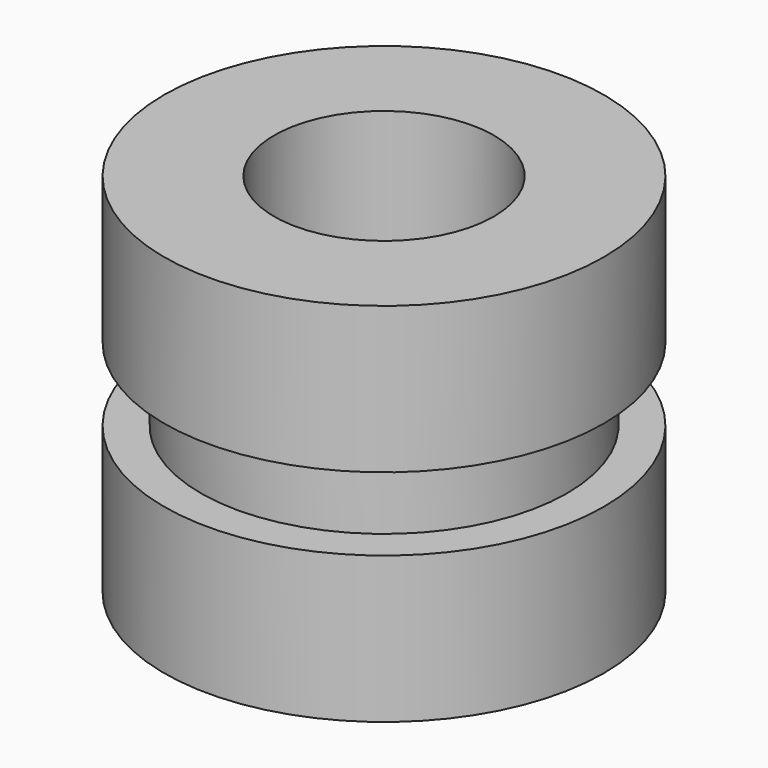
from build123d import *

# Parameters (mm, degrees)
F0_R     = 2.5
F0_R_2   = 1.5
F1_DEPTH = 5
F0_R_3   = 3
F2_DEPTH = 2
F3_R     = 3
F3_R_2   = 2.5
F4_DEPTH = 2


with BuildPart() as f1:
    # F0 (on Top) → F1 (new body)
    with BuildSketch(Plane.XY):
        Circle(F0_R)
        Circle(F0_R_2, mode=Mode.SUBTRACT)
    extrude(amount=F1_DEPTH)

    # F0 (on Top) → F2 (join)
    with BuildSketch(Plane.XY):
        Circle(F0_R_3)
        Circle(F0_R, mode=Mode.SUBTRACT)
    extrude(amount=F2_DEPTH)

    # F3 (on face) → F4 (join)
    with BuildSketch(Plane.XY.offset(5)):
        Circle(F3_R)
        Circle(F3_R_2, mode=Mode.SUBTRACT)
    extrude(amount=-F4_DEPTH)


solid = f1.part
